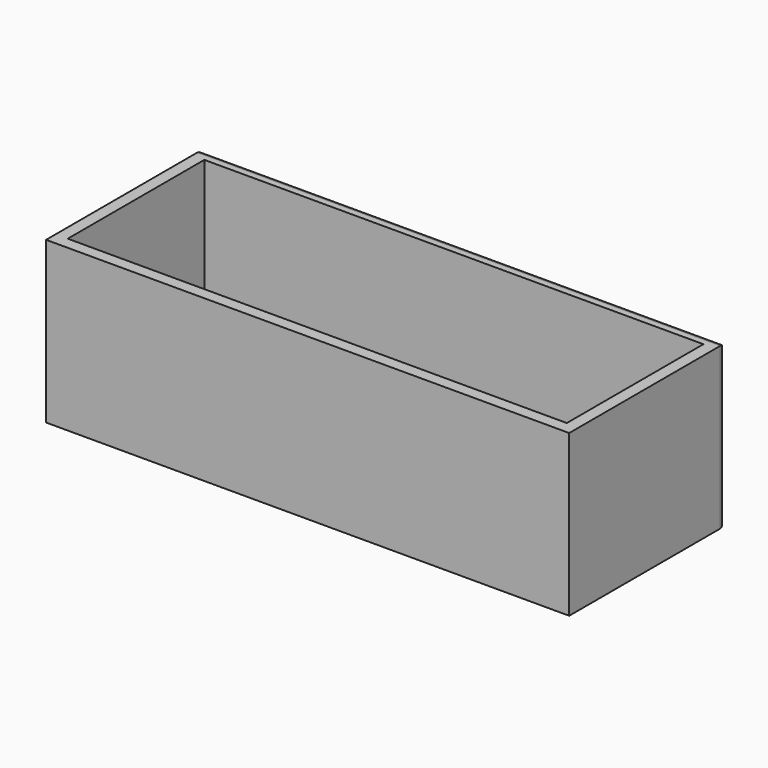
from build123d import *

# Parameters (mm, degrees)
F0_W     = 956
F0_H     = 356
F1_DEPTH = 294
F2_T     = -22
F3_R     = 11


with BuildPart() as f1:
    # F0 (on Top) → F1 (new body)
    with BuildSketch(Plane.XY):
        Rectangle(F0_W, F0_H)
    extrude(amount=F1_DEPTH)

    # F2
    f2_openings = [f1.faces().sort_by_distance(p)[0] for p in [
        (0, 0, 294),
    ]]
    offset(amount=F2_T, openings=f2_openings)

    # F3
    f3_edges = [f1.edges().sort_by_distance(p)[0] for p in [
        (478, 178, 147),
        (-478, 178, 147),
        (0, 178, 0),
        (0, 178, 294),
    ]]
    fillet(f3_edges, radius=F3_R)


solid = f1.part
